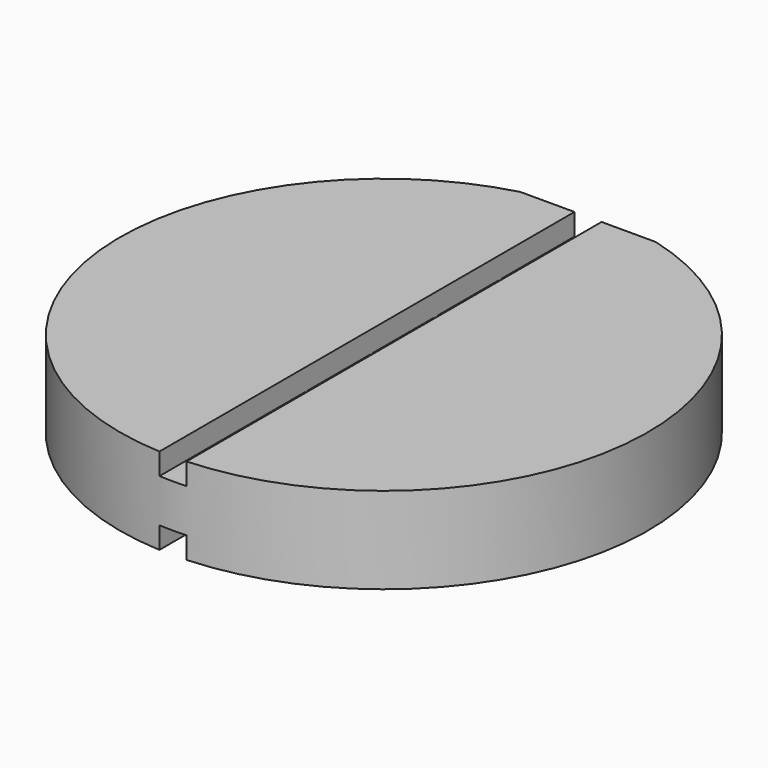
from build123d import *

# Parameters (mm, degrees)
PAD_DEPTH       = 3.2
SKETCH001_W     = 1
SKETCH001_H     = 22
POCKET_DEPTH    = 0.8
SKETCH002_R     = 0.5
POCKET001_DEPTH = 3.201
SKETCH003_W     = 1
SKETCH003_H     = 22
POCKET002_DEPTH = 0.8


with BuildPart() as part:
    # Sketch → Pad (new body)
    with BuildSketch(Plane.XY):
        with BuildLine():
            ThreePointArc((-2.5, 9.424038), (0, -9.75), (2.5, 9.424038))
            Line((-2.5, 9.424038), (2.5, 9.424038))
        make_face()
    extrude(amount=PAD_DEPTH)

    # Sketch001 (on Face4 of Pad) → Pocket (cut)
    with BuildSketch(Plane.XY.offset(3.2)):
        Rectangle(SKETCH001_W, SKETCH001_H)
    extrude(amount=-POCKET_DEPTH, mode=Mode.SUBTRACT)

    # Sketch002 → Pocket001 (cut, through all)
    with BuildSketch(Plane.XY):
        with Locations((0, 6)):
            Circle(SKETCH002_R)
        with Locations((0, 3)):
            Circle(SKETCH002_R)
        Circle(SKETCH002_R)
        with Locations((0, -3)):
            Circle(SKETCH002_R)
    extrude(amount=POCKET001_DEPTH, mode=Mode.SUBTRACT)

    # Sketch003 (on Face2 of Pocket001) → Pocket002 (cut)
    with BuildSketch(Plane(origin=(0, 0, 0), x_dir=(1, 0, 0), z_dir=(0, 0, -1))):
        Rectangle(SKETCH003_W, SKETCH003_H)
    extrude(amount=-POCKET002_DEPTH, mode=Mode.SUBTRACT)


solid = part.part
